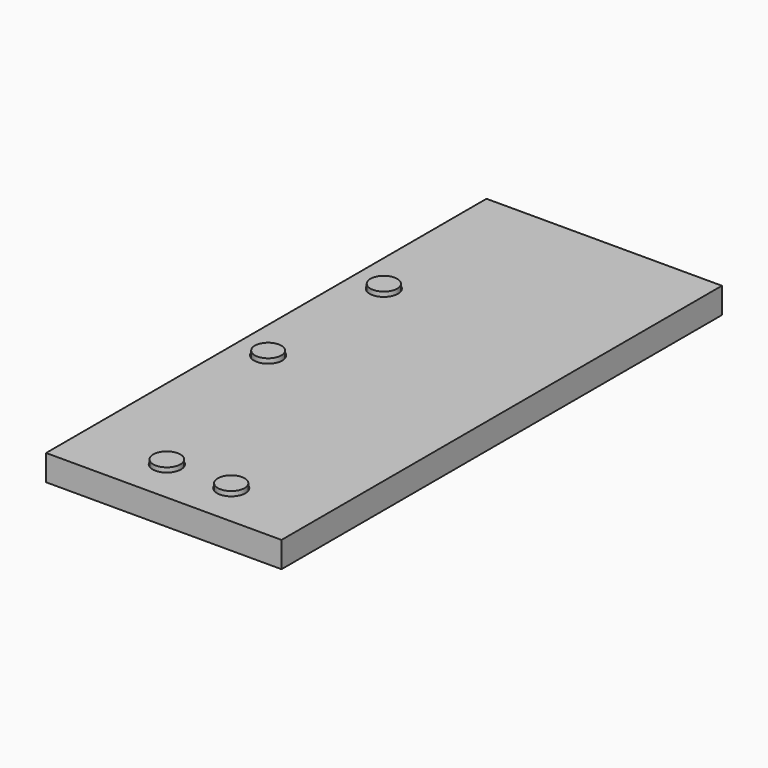
from build123d import *

# Parameters (mm, degrees)
F0_W     = 54.729192
F0_H     = 20.446702
F0_R     = 3.283132
F0_H_2   = 107.526
F1_DEPTH = 6
F0_R_2   = 3.145619
F0_R_3   = 3.109841
F0_R_4   = 3.076539
F0_R_5   = 3.105802
F2_DEPTH = 7


with BuildPart() as f1:
    # F0 (on Top) → F1 (new body)
    with BuildSketch(Plane.XY):
        Rectangle(F0_W, F0_H)
        with Locations((-7.473357, 0)):
            Circle(F0_R, mode=Mode.SUBTRACT)
        with Locations((7.500483, 0)):
            Circle(F0_R, mode=Mode.SUBTRACT)
        with Locations((0, 63.986351)):
            Rectangle(F0_W, F0_H_2)
        with Locations((-19.854527, 44.904865)):
            Circle(F0_R, mode=Mode.SUBTRACT)
        with Locations((-19.854527, 78.53125)):
            Circle(F0_R, mode=Mode.SUBTRACT)
    extrude(amount=F1_DEPTH)


with BuildPart() as f2:
    # F0 (on Top) → F2 (new body)
    with BuildSketch(Plane.XY):
        with Locations((-7.473357, 0)):
            Circle(F0_R_2)
        with Locations((7.500483, 0)):
            Circle(F0_R_3)
        with Locations((-19.854527, 44.904865)):
            Circle(F0_R_4)
        with Locations((-19.854527, 78.53125)):
            Circle(F0_R_5)
    extrude(amount=F2_DEPTH)


with BuildPart() as f2_1:
    # F3: moved
    add(f2.part.moved(Location((0, 0, 10))))


with BuildPart() as f1_1:
    # F3: moved
    add(f1.part.moved(Location((0, 0, 10))))


solid = Compound([f2_1.part, f1_1.part])
